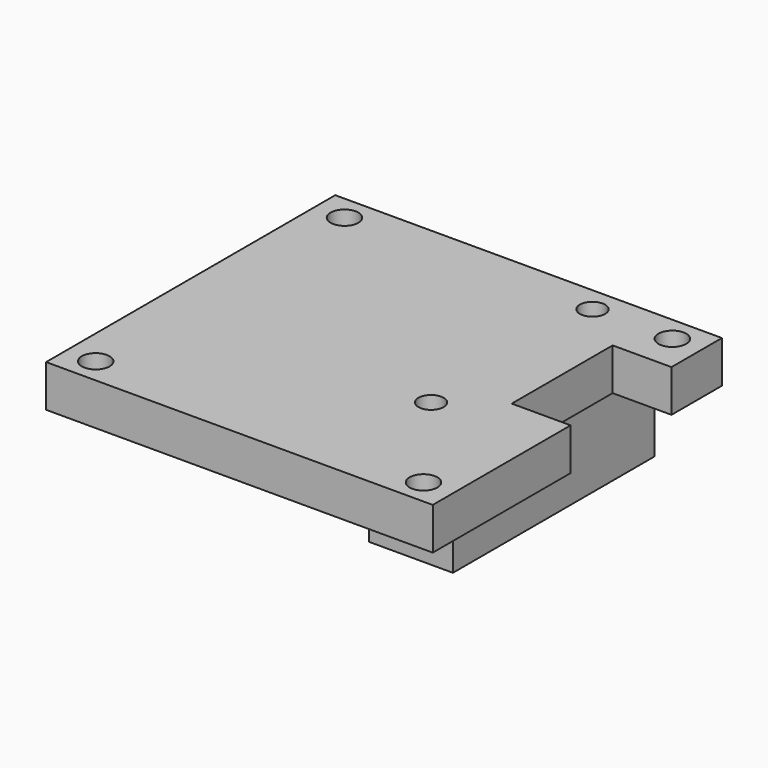
from build123d import *

# Parameters (mm, degrees)
SKETCH_R     = 1.65
PAD_DEPTH    = 5
SKETCH001_W  = 10
SKETCH001_H  = 30
PAD001_DEPTH = 10
SKETCH002_R  = 1.5
POCKET_DEPTH = 15


with BuildPart() as part:
    # Sketch → Pad (new body)
    with BuildSketch(Plane.XY):
        Polygon((-23, 21), (23, 21), (23, 13.5), (16, 13.5), (16, -1.5), (23, -1.5), (23, -22), (-23, -22), align=None)
        with Locations((-19.5, 18)):
            Circle(SKETCH_R, mode=Mode.SUBTRACT)
        with Locations((19.5, 18)):
            Circle(SKETCH_R, mode=Mode.SUBTRACT)
        with Locations((-19.5, -19)):
            Circle(SKETCH_R, mode=Mode.SUBTRACT)
        with Locations((19.5, -19)):
            Circle(SKETCH_R, mode=Mode.SUBTRACT)
    extrude(amount=-PAD_DEPTH)

    # Sketch001 (on Face14 of Pad) → Pad001 (join)
    with BuildSketch(Plane(origin=(0, 0, -5), x_dir=(1, 0, 0), z_dir=(0, 0, -1))):
        with Locations((10, -6)):
            Rectangle(SKETCH001_W, SKETCH001_H)
    extrude(amount=PAD001_DEPTH)

    # Sketch002 (on Face17 of Pad001) → Pocket (cut)
    with BuildSketch(Plane(origin=(0, 0, -15), x_dir=(1, 0, 0), z_dir=(0, 0, -1))):
        with Locations((10, 6)):
            Circle(SKETCH002_R)
        with Locations((10, -18)):
            Circle(SKETCH002_R)
    extrude(amount=-POCKET_DEPTH, mode=Mode.SUBTRACT)


solid = part.part
